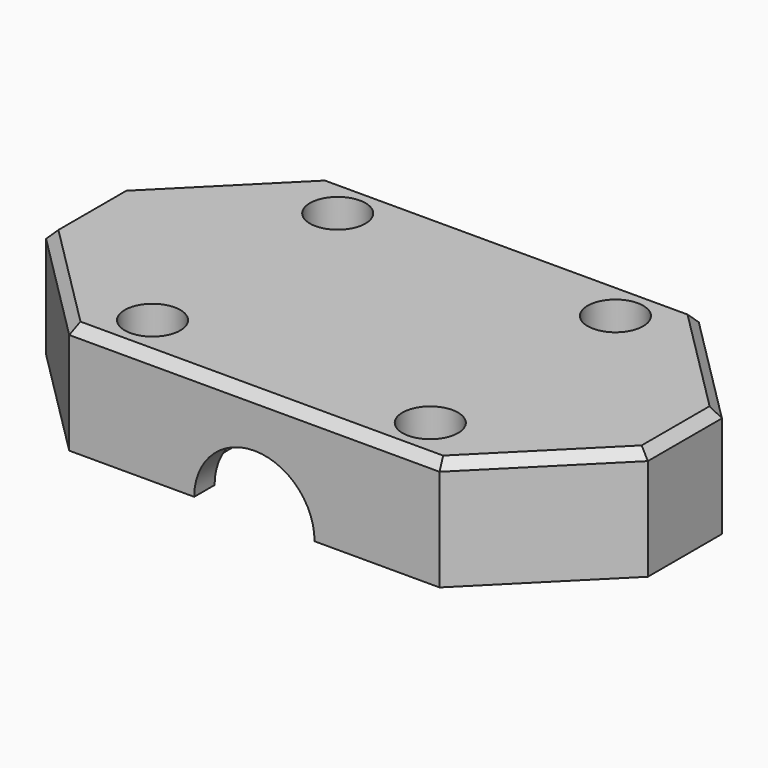
from build123d import *

# Parameters (mm, degrees)
SKETCH_R          = 1.6
PAD_DEPTH         = 12
SKETCH001_R       = 6.5
POCKET_DEPTH      = 17.501
POCKET_DEPTH_BACK = -17.501
SKETCH002_R       = 9.6
POCKET001_DEPTH   = 14.75
SKETCH003_R       = 3
POCKET002_DEPTH   = 6
SKETCH004_R       = 4
POCKET003_DEPTH   = 5
CHAMFER_SIZE      = 1


with BuildPart() as part:
    # Sketch → Pad (new body)
    with BuildSketch(Plane.XY):
        Polygon((-32.5, 5), (-32.5, -5), (-20, -17.5), (20, -17.5), (32.5, -5), (32.5, 5), (20, 17.5), (-20, 17.5), align=None)
        with Locations((-15, 12.5)):
            Circle(SKETCH_R, mode=Mode.SUBTRACT)
        with Locations((15, 12.5)):
            Circle(SKETCH_R, mode=Mode.SUBTRACT)
        with Locations((-15, -12.5)):
            Circle(SKETCH_R, mode=Mode.SUBTRACT)
        with Locations((15, -12.5)):
            Circle(SKETCH_R, mode=Mode.SUBTRACT)
    extrude(amount=PAD_DEPTH)

    # Sketch001 → Pocket (cut, two sides)
    with BuildSketch(Plane.XZ) as pocket_sk:
        Circle(SKETCH001_R)
    extrude(amount=-POCKET_DEPTH, mode=Mode.SUBTRACT)
    extrude(pocket_sk.sketch, amount=-POCKET_DEPTH_BACK, mode=Mode.SUBTRACT)

    # Sketch002 → Pocket001 (cut, symmetric)
    with BuildSketch(Plane.XZ):
        Circle(SKETCH002_R)
    extrude(amount=POCKET001_DEPTH, both=True, mode=Mode.SUBTRACT)

    # Sketch003 (on Face5 of Pocket001) → Pocket002 (cut)
    with BuildSketch(Plane.XY.offset(12)):
        with Locations((-15, 12.5)):
            Circle(SKETCH003_R)
        with Locations((15, 12.5)):
            Circle(SKETCH003_R)
        with Locations((-15, -12.5)):
            Circle(SKETCH003_R)
        with Locations((15, -12.5)):
            Circle(SKETCH003_R)
    extrude(amount=-POCKET002_DEPTH, mode=Mode.SUBTRACT)

    # Sketch004 → Pocket003 (cut)
    with BuildSketch(Plane.XY):
        with Locations((-22.5, 0)):
            Circle(SKETCH004_R)
        with Locations((22.5, 0)):
            Circle(SKETCH004_R)
    extrude(amount=POCKET003_DEPTH, mode=Mode.SUBTRACT)

    # Chamfer
    chamfer_edges = [part.edges().sort_by_distance(p)[0] for p in [
        (0, 17.5, 12),
        (-26.25, 11.25, 12),
        (-32.5, 0, 12),
        (-26.25, -11.25, 12),
        (0, -17.5, 12),
        (26.25, -11.25, 12),
        (32.5, 0, 12),
        (26.25, 11.25, 12),
    ]]
    chamfer(chamfer_edges, length=CHAMFER_SIZE)


solid = part.part
